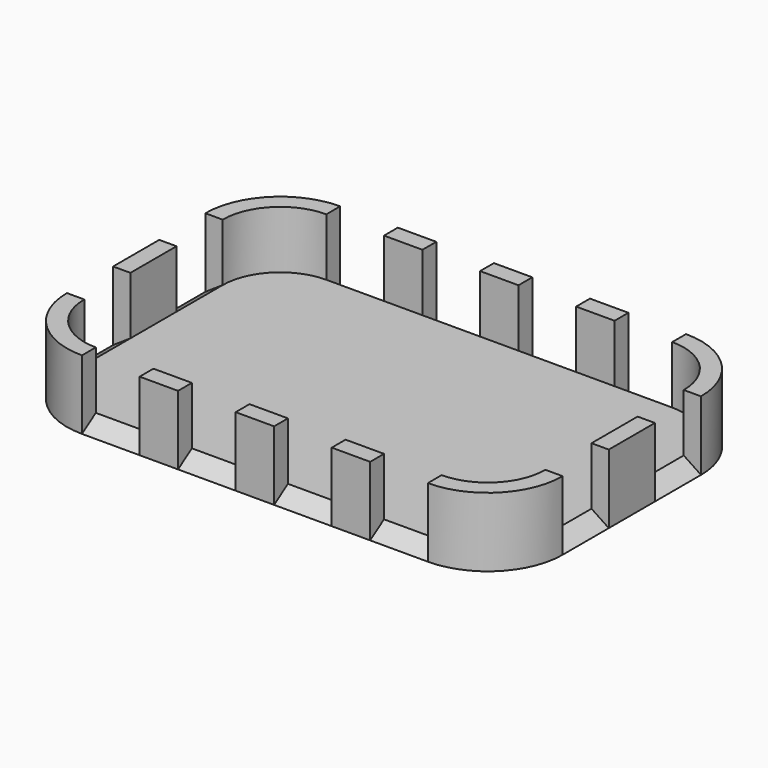
from build123d import *

# Parameters (mm, degrees)
PAD_DEPTH     = 2
SKETCH003_W   = 6.666667
SKETCH003_H   = 3
SKETCH003_W_2 = 6.666666
SKETCH003_W_3 = 3
SKETCH003_H_2 = 10
PAD001_DEPTH  = 12


with BuildPart() as part:
    # AdditivePipe: sweep along a path in Sketch
    with BuildLine(Plane.XY) as additivepipe_path:
        Line((-40, 15), (-40, -15))
        ThreePointArc((-40, -15), (-37.071068, -22.071068), (-30, -25))
        Line((-30, -25), (30, -25))
        ThreePointArc((30, -25), (37.071068, -22.071068), (40, -15))
        Line((40, -15), (40, 15))
        ThreePointArc((40, 15), (37.071068, 22.071068), (30, 25))
        Line((30, 25), (-30, 25))
        ThreePointArc((-30, 25), (-37.071068, 22.071068), (-40, 15))
    # Sketch002 → AdditivePipe (sweep)
    with BuildSketch(Plane.YZ):
        Polygon((-25, 0), (-28, 0), (-25, 2), align=None)
    sweep(path=additivepipe_path.line)

    # Sketch001 → Pad (new body)
    with BuildSketch(Plane.XY):
        with BuildLine():
            Line((-40, 15), (-40, -15))
            ThreePointArc((-40, -15), (-37.071068, -22.071068), (-30, -25))
            Line((-30, -25), (30, -25))
            ThreePointArc((30, -25), (37.071068, -22.071068), (40, -15))
            Line((40, -15), (40, 15))
            ThreePointArc((40, 15), (37.071068, 22.071068), (30, 25))
            Line((30, 25), (-30, 25))
            ThreePointArc((-30, 25), (-37.071068, 22.071068), (-40, 15))
        make_face()
    extrude(amount=PAD_DEPTH)

    # Sketch003 → Pad001 (join)
    with BuildSketch(Plane.XY):
        with BuildLine():
            ThreePointArc((-30, 28), (-39.192388, 24.192388), (-43, 15))
            Line((-43, 15), (-40, 15))
            ThreePointArc((-30, 25), (-37.071068, 22.071068), (-40, 15))
            Line((-30, 25), (-30, 28))
        make_face()
        with BuildLine():
            ThreePointArc((-43, -15), (-39.192388, -24.192388), (-30, -28))
            Line((-30, -28), (-30, -25))
            ThreePointArc((-40, -15), (-37.071068, -22.071068), (-30, -25))
            Line((-43, -15), (-40, -15))
        make_face()
        with BuildLine():
            ThreePointArc((30, -28), (39.192388, -24.192388), (43, -15))
            Line((40, -15), (43, -15))
            ThreePointArc((30, -25), (37.071068, -22.071068), (40, -15))
            Line((30, -28), (30, -25))
        make_face()
        with BuildLine():
            ThreePointArc((43, 15), (39.192388, 24.192388), (30, 28))
            Line((30, 25), (30, 28))
            ThreePointArc((40, 15), (37.071068, 22.071068), (30, 25))
            Line((40, 15), (43, 15))
        make_face()
        with Locations((16.666666, 26.5)):
            Rectangle(SKETCH003_W, SKETCH003_H)
        with Locations((0, 26.5)):
            Rectangle(SKETCH003_W_2, SKETCH003_H)
        with Locations((-16.666666, 26.5)):
            Rectangle(SKETCH003_W, SKETCH003_H)
        with Locations((-16.666666, -26.5)):
            Rectangle(SKETCH003_W, SKETCH003_H)
        with Locations((0, -26.5)):
            Rectangle(SKETCH003_W_2, SKETCH003_H)
        with Locations((16.666666, -26.5)):
            Rectangle(SKETCH003_W, SKETCH003_H)
        with Locations((-41.5, 0)):
            Rectangle(SKETCH003_W_3, SKETCH003_H_2)
        with Locations((41.5, 0)):
            Rectangle(SKETCH003_W_3, SKETCH003_H_2)
    extrude(amount=PAD001_DEPTH)


solid = part.part
